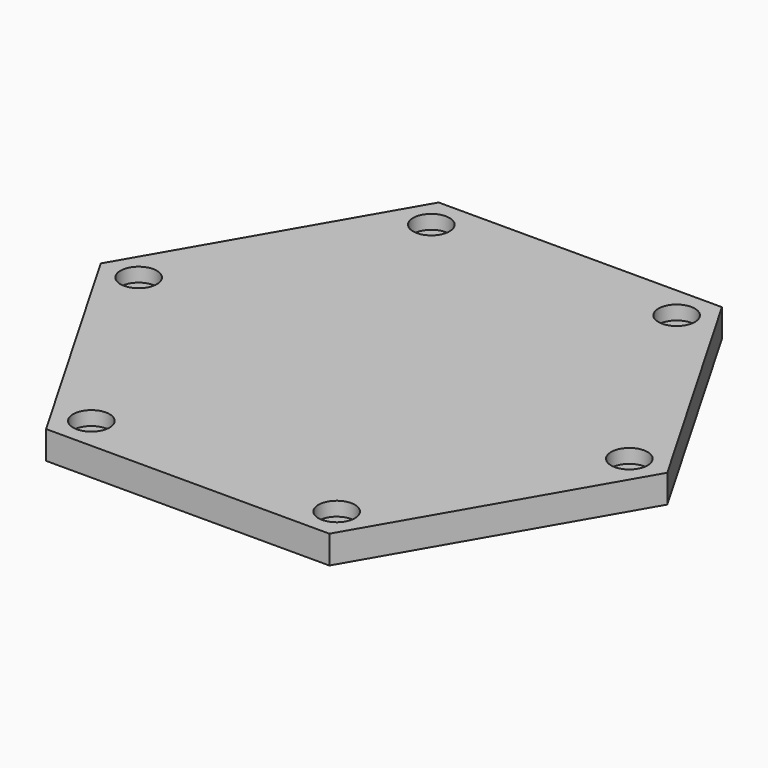
from build123d import *

# Parameters (mm, degrees)
F0_R     = 5.2
F1_DEPTH = 4
F2_DEPTH = 4


with BuildPart() as f1:
    # F0 (on Top) → F1 (new body)
    with BuildSketch(Plane.XY):
        Polygon((40.4145188433, 70), (-40.4145188433, 70), (-80.8290376865, 0), (-40.4145188433, -70), (40.4145188433, -70), (80.8290376865, 0), align=None)
        with Locations((-35, -60.6217782649)):
            Circle(F0_R, mode=Mode.SUBTRACT)
        with Locations((35, -60.6217782649)):
            Circle(F0_R, mode=Mode.SUBTRACT)
        with Locations((-70, 0)):
            Circle(F0_R, mode=Mode.SUBTRACT)
        with Locations((-35, 60.6217782649)):
            Circle(F0_R, mode=Mode.SUBTRACT)
        with Locations((70, 0)):
            Circle(F0_R, mode=Mode.SUBTRACT)
        with Locations((35, 60.6217782649)):
            Circle(F0_R, mode=Mode.SUBTRACT)
        Polygon((40.4145188433, 70), (-40.4145188433, 70), (-80.8290376865, 0), (-40.4145188433, -70), (40.4145188433, -70), (80.8290376865, 0), align=None)
        with Locations((-35, -60.6217782649)):
            Circle(F0_R, mode=Mode.SUBTRACT)
        with Locations((35, -60.6217782649)):
            Circle(F0_R, mode=Mode.SUBTRACT)
        with Locations((-70, 0)):
            Circle(F0_R, mode=Mode.SUBTRACT)
        with Locations((-35, 60.6217782649)):
            Circle(F0_R, mode=Mode.SUBTRACT)
        with Locations((70, 0)):
            Circle(F0_R, mode=Mode.SUBTRACT)
        with Locations((35, 60.6217782649)):
            Circle(F0_R, mode=Mode.SUBTRACT)
        with Locations((-70, 0)):
            Circle(F0_R)
        with Locations((-35, 60.6217782649)):
            Circle(F0_R)
        with Locations((35, 60.6217782649)):
            Circle(F0_R)
        with Locations((70, 0)):
            Circle(F0_R)
        with Locations((35, -60.6217782649)):
            Circle(F0_R)
        with Locations((-35, -60.6217782649)):
            Circle(F0_R)
    extrude(amount=-F1_DEPTH)

    # F0 (on Top) → F2 (join)
    with BuildSketch(Plane.XY):
        Polygon((40.4145188433, 70), (-40.4145188433, 70), (-80.8290376865, 0), (-40.4145188433, -70), (40.4145188433, -70), (80.8290376865, 0), align=None)
        with Locations((-35, -60.6217782649)):
            Circle(F0_R, mode=Mode.SUBTRACT)
        with Locations((35, -60.6217782649)):
            Circle(F0_R, mode=Mode.SUBTRACT)
        with Locations((-70, 0)):
            Circle(F0_R, mode=Mode.SUBTRACT)
        with Locations((-35, 60.6217782649)):
            Circle(F0_R, mode=Mode.SUBTRACT)
        with Locations((70, 0)):
            Circle(F0_R, mode=Mode.SUBTRACT)
        with Locations((35, 60.6217782649)):
            Circle(F0_R, mode=Mode.SUBTRACT)
    extrude(amount=F2_DEPTH)


solid = f1.part
